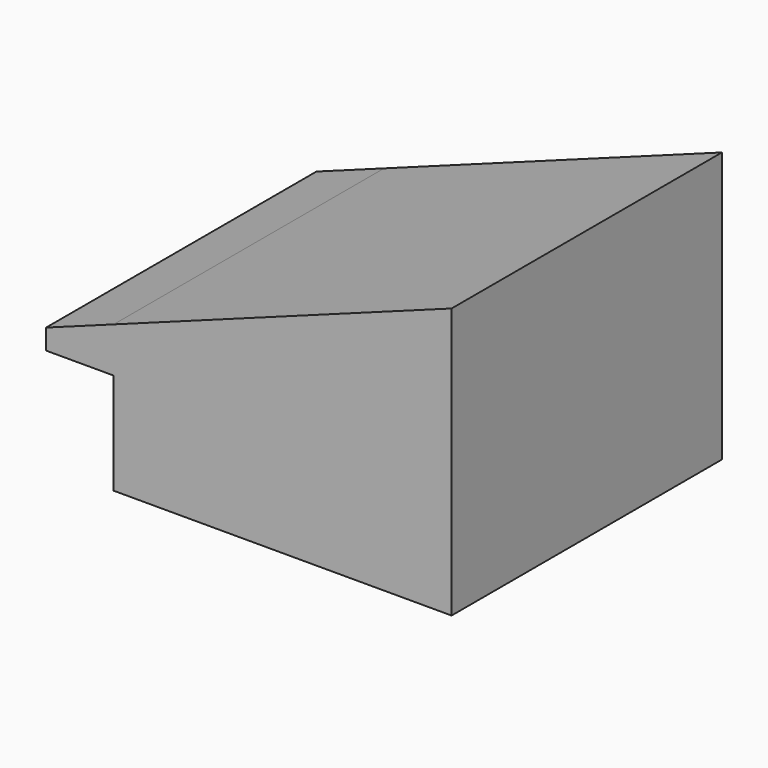
from build123d import *

# Parameters (mm, degrees)
F1_DEPTH = 25


with BuildPart() as f1:
    # F0 (on Front) → F1 (new body)
    with BuildSketch(Plane.XZ):
        Polygon((24.264706, 7.622549), (24.264706, 22.622549), (-0.735294, 13.455882), (-0.735294, 10.122549), (-0.735294, 7.622549), (-0.735294, 2.622549), (4.264706, 2.622549), (24.264706, 2.622549), align=None)
        Polygon((-0.735294, 10.122549), (-0.735294, 13.455882), (-5.735294, 11.622549), (-5.735294, 10.122549), (-3.235294, 10.122549), align=None)
    extrude(amount=F1_DEPTH)


solid = f1.part
